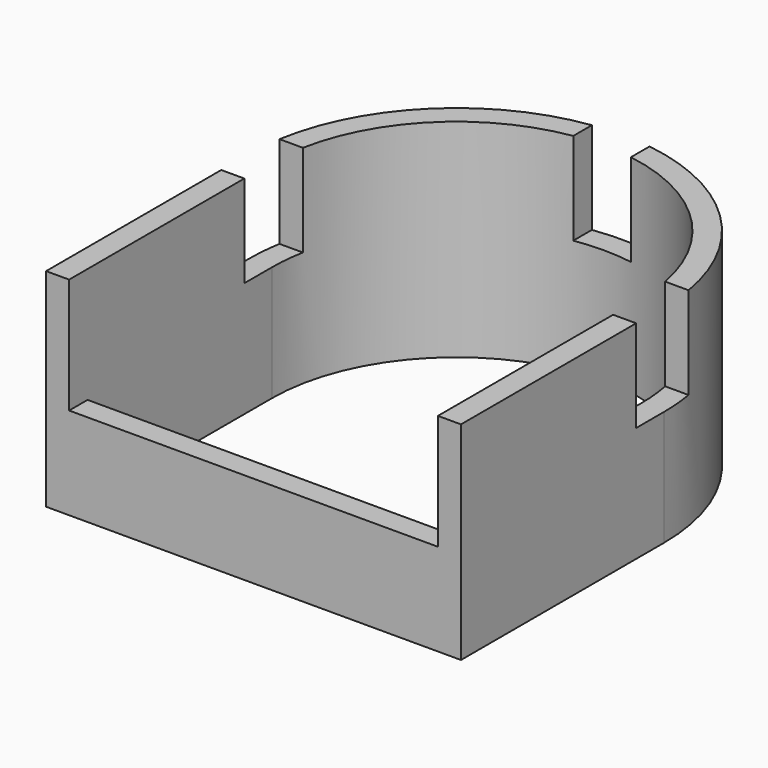
from build123d import *

# Parameters (mm, degrees)
PAD048_DEPTH    = 18
SKETCH114_W     = 32
SKETCH114_H     = 2
POCKET042_DEPTH = 10
SKETCH158_W     = 5
SKETCH158_H     = 5
SKETCH158_W_2   = 3
SKETCH158_H_2   = 6
POCKET062_DEPTH = 8


with BuildPart() as part:
    # Sketch085 → Pad048 (new body)
    with BuildSketch(Plane.XY):
        with BuildLine():
            ThreePointArc((36, 0), (18, 18), (0, 0))
            Line((0, 0), (0, -22))
            Line((36, -22), (0, -22))
            Line((36, -22), (36, 0))
        make_face()
        with BuildLine():
            ThreePointArc((34, 0), (18, 16), (2, 0))
            Line((2, -20), (2, 0))
            Line((2, -20), (34, -20))
            Line((34, 0), (34, -20))
        make_face(mode=Mode.SUBTRACT)
    extrude(amount=PAD048_DEPTH)

    # Sketch114 (on Face10 of Pad048) → Pocket042 (cut)
    with BuildSketch(Plane.XY.offset(18)):
        with Locations((18, -21)):
            Rectangle(SKETCH114_W, SKETCH114_H)
    extrude(amount=-POCKET042_DEPTH, mode=Mode.SUBTRACT)

    # Sketch158 (on Face5 of Pocket042) → Pocket062 (cut)
    with BuildSketch(Plane.XY.offset(18)):
        with Locations((18, 16.678012)):
            Rectangle(SKETCH158_W, SKETCH158_H)
        with Locations((1.5, 0)):
            Rectangle(SKETCH158_W_2, SKETCH158_H_2)
        with Locations((34.5, 0)):
            Rectangle(SKETCH158_W_2, SKETCH158_H_2)
    extrude(amount=-POCKET062_DEPTH, mode=Mode.SUBTRACT)


solid = part.part
